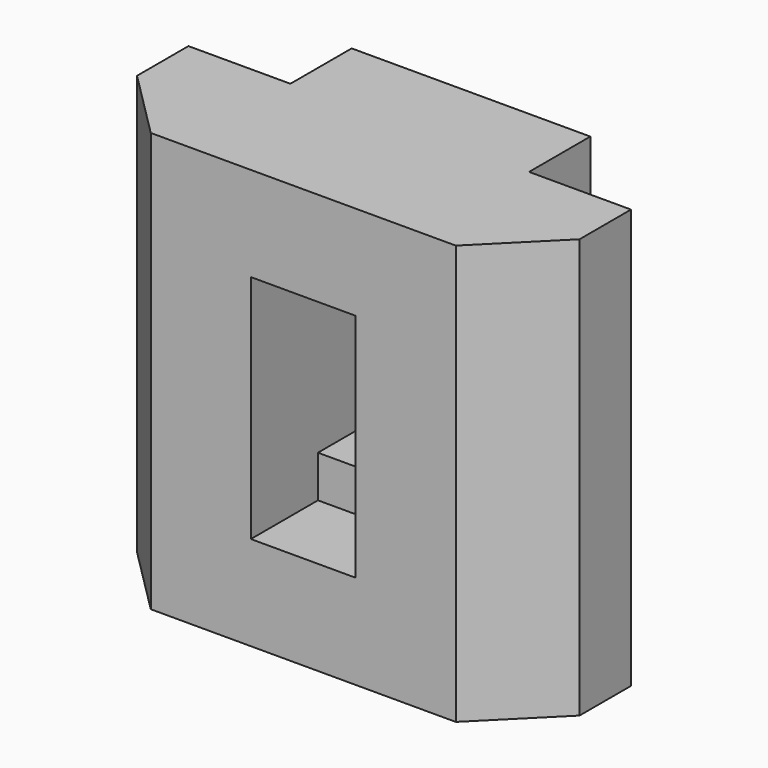
from build123d import *

# Parameters (mm, degrees)
PAD_DEPTH       = 10
SKETCH002_W     = 2.5
SKETCH002_H     = 5.5
POCKET_DEPTH    = 2
SKETCH003_W     = 2.254226
SKETCH003_H     = 3.5
POCKET001_DEPTH = 5


with BuildPart() as part:
    # Sketch001 → Pad (new body)
    with BuildSketch(Plane.XY):
        Polygon((5.277013, 8.093206), (5.277013, 6.560121), (3.637013, 4.920121), (-3.637013, 4.920121), (-5.277013, 6.560121), (-5.277013, 8.093206), (-2.845653, 8.093206), (-2.845653, 9.920121), (2.845653, 9.920121), (2.845653, 8.093206), align=None)
    extrude(amount=PAD_DEPTH)

    # Sketch002 (on Face3 of Pad) → Pocket (cut)
    with BuildSketch(Plane.XZ.offset(-4.920121)):
        with Locations((0, 5)):
            Rectangle(SKETCH002_W, SKETCH002_H)
    extrude(amount=-POCKET_DEPTH, mode=Mode.SUBTRACT)

    # Sketch003 (on Face17 of Pocket) → Pocket001 (cut)
    with BuildSketch(Plane.XZ.offset(-6.920121)):
        with Locations((-0.122887, 5)):
            Rectangle(SKETCH003_W, SKETCH003_H)
    extrude(amount=-POCKET001_DEPTH, mode=Mode.SUBTRACT)


with BuildPart() as part_1:
    # Body placement: moved
    add(part.part.moved(Location((0, 0, -10.2))))


solid = part_1.part
